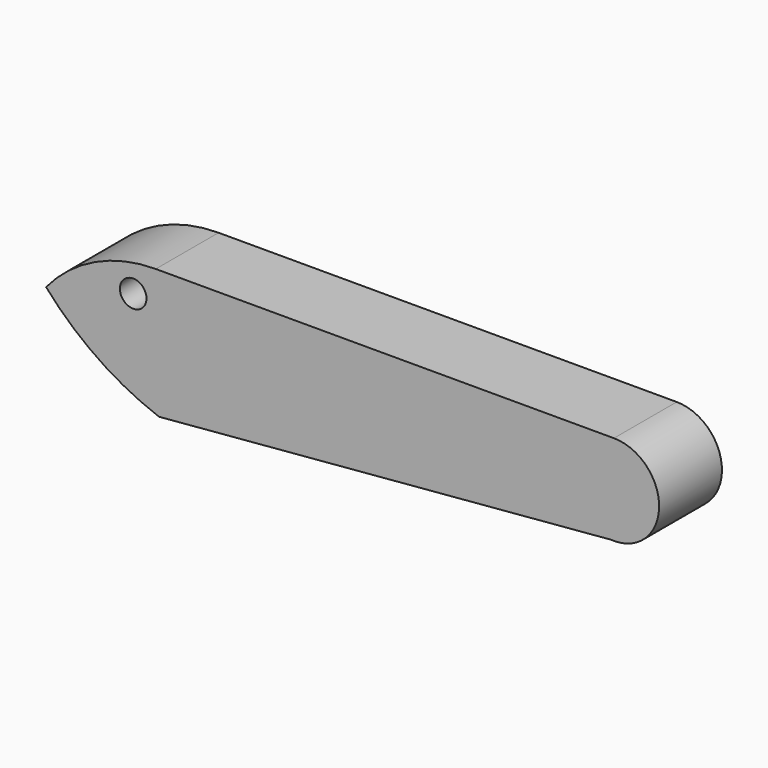
from build123d import *

# Parameters (mm, degrees)
F0_R     = 2.582307
F1_DEPTH = 15.24


with BuildPart() as f1:
    # F0 (on Front) → F1 (new body)
    with BuildSketch(Plane.XZ):
        with BuildLine():
            Line((35.072878, 13.622056), (-53.861916, 13.622056))
            ThreePointArc((-53.861916, 13.622056), (-65.629053, 10.991668), (-75.156167, 3.601233))
            ThreePointArc((-75.156167, 3.601233), (-65.141959, -5.294066), (-53.235617, -11.430001))
            Line((-53.235617, -11.430001), (34.446575, -3.914384))
            ThreePointArc((34.446575, -3.914384), (43.846688, 4.529301), (35.072878, 13.622056))
        make_face()
        with Locations((-58.246028, 7.985342)):
            Circle(F0_R, mode=Mode.SUBTRACT)
    extrude(amount=F1_DEPTH)


solid = f1.part
